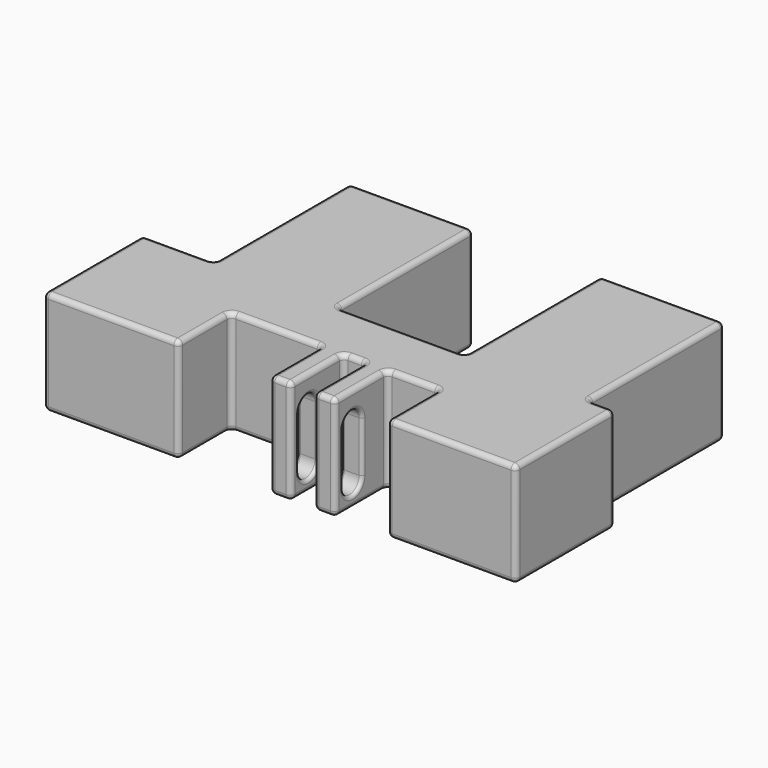
from build123d import *

# Parameters (mm, degrees)
PAD_DEPTH       = 32
SKETCH001_W     = 7.05
SKETCH001_H     = 32
SKETCH001_W_2   = 27.975
SKETCH001_W_3   = 16
POCKET_DEPTH    = 20
POCKET001_DEPTH = 20.05
FILLET_R        = 1.5
FILLET001_R     = 1.5
FILLET002_R     = 1.5
FILLET003_R     = 1


with BuildPart() as part:
    # Sketch → Pad (new body)
    with BuildSketch(Plane.XY):
        Polygon((0, 0), (0, 38), (22, 38), (22, 90), (60, 90), (60, 38), (99, 38), (99, 90), (137, 90), (137, 38), (145, 38), (145, 0), align=None)
    extrude(amount=PAD_DEPTH)

    # Sketch001 (on Face12 of Pad) → Pocket (cut)
    with BuildSketch(Plane.XZ):
        with Locations((79.5, 16)):
            Rectangle(SKETCH001_W, SKETCH001_H)
        with Locations((55.4875, 16)):
            Rectangle(SKETCH001_W_2, SKETCH001_H)
        with Locations((97.525, 16)):
            Rectangle(SKETCH001_W_3, SKETCH001_H)
    extrude(amount=-POCKET_DEPTH, mode=Mode.SUBTRACT)

    # Sketch002 (on Face25 of Pocket) → Pocket001 (cut)
    with BuildSketch(Plane(origin=(69.475, 0, 0), x_dir=(0, -1, 0), z_dir=(-1, 0, 0))):
        with BuildLine():
            ThreePointArc((-3, 22.55), (-6.7, 26.25), (-10.4, 22.55))
            Line((-10.4, 22.55), (-10.4, 7.02))
            ThreePointArc((-10.4, 7.02), (-6.7, 3.32), (-3, 7.02))
            Line((-3, 22.55), (-3, 7.02))
        make_face()
    extrude(amount=-POCKET001_DEPTH, mode=Mode.SUBTRACT)

    # Fillet
    fillet_edges = [part.edges().sort_by_distance(p)[0] for p in [
        (41.5, 0, 16),
        (41.5, 20, 16),
        (69.475, 20, 16),
        (75.975, 20, 16),
        (83.025, 20, 16),
        (89.525, 20, 16),
        (105.525, 20, 16),
        (105.525, 0, 16),
        (145, 0, 16),
        (145, 38, 16),
        (137, 38, 16),
        (137, 90, 16),
        (99, 90, 16),
        (99, 38, 16),
        (60, 38, 16),
        (60, 90, 16),
        (22, 90, 16),
        (22, 38, 16),
        (0, 38, 16),
        (0, 0, 16),
    ]]
    fillet(fillet_edges, radius=FILLET_R)

    # Fillet001
    fillet001_edges = [part.edges().sort_by_distance(p)[0] for p in [
        (86.275, 0, 32),
        (86.275, 0, 0),
        (72.725, 0, 0),
        (72.725, 0, 32),
    ]]
    fillet(fillet001_edges, radius=FILLET001_R)

    # Fillet002
    fillet002_edges = [part.edges().sort_by_distance(p)[0] for p in [
        (22, 64, 32),
        (20.75, 0, 0),
        (75.975, 10, 32),
    ]]
    fillet(fillet002_edges, radius=FILLET002_R)

    # Fillet003
    fillet003_edges = [part.edges().sort_by_distance(p)[0] for p in [
        (69.475, 10.4, 14.785),
        (75.975, 10.4, 14.785),
        (83.025, 10.4, 14.785),
        (89.525, 10.4, 14.785),
    ]]
    fillet(fillet003_edges, radius=FILLET003_R)


solid = part.part
